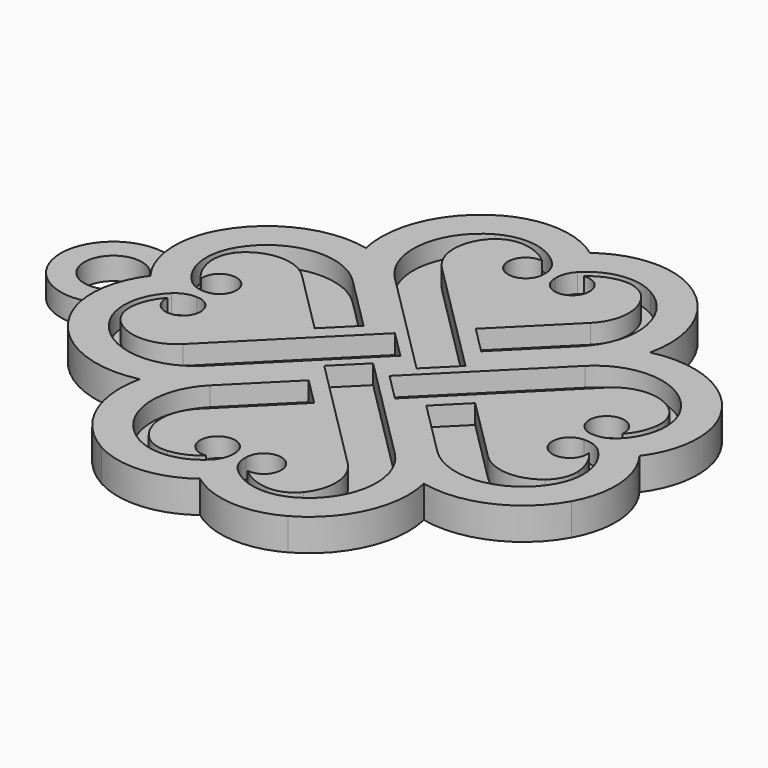
from build123d import *

# Parameters (mm, degrees)
F0_R     = 4.5
F1_DEPTH = 2
F2_DEPTH = 3
F3_DEPTH = 1.5


with BuildPart() as f1:
    # F0 (on Top) → F1 (new body)
    with BuildSketch(Plane.XY):
        with BuildLine():
            ThreePointArc((-22.195557, 22.10022), (-31.929241, 21.110374), (-39.143437, 14.501306))
            ThreePointArc((-39.143437, 14.501306), (-40.459177, 11.146918), (-40.831159, 7.562965))
            ThreePointArc((-40.831159, 7.562965), (-40.075927, 3.538955), (-38.138124, -0.0677))
            ThreePointArc((-38.138124, -0.0677), (-40.043327, -3.607661), (-40.809844, -7.553999))
            ThreePointArc((-40.809844, -7.553999), (-40.456582, -11.200588), (-39.126555, -14.614301))
            ThreePointArc((-39.126555, -14.614301), (-31.875648, -21.239772), (-22.10022, -22.195557))
            ThreePointArc((-22.10022, -22.195557), (-21.110374, -31.929241), (-14.501306, -39.143437))
            ThreePointArc((-14.501306, -39.143437), (-7.067382, -40.806194), (0.0677, -38.138124))
            ThreePointArc((0.0677, -38.138124), (7.19437, -40.790271), (14.614301, -39.126555))
            ThreePointArc((14.614301, -39.126555), (21.239772, -31.875648), (22.195557, -22.10022))
            ThreePointArc((22.195557, -22.10022), (31.929241, -21.110374), (39.143437, -14.501306))
            ThreePointArc((39.143437, -14.501306), (40.806194, -7.067382), (38.138124, 0.0677))
            ThreePointArc((38.138124, 0.0677), (40.790271, 7.19437), (39.126555, 14.614301))
            ThreePointArc((39.126555, 14.614301), (31.875648, 21.239772), (22.10022, 22.195557))
            ThreePointArc((22.10022, 22.195557), (21.110374, 31.929241), (14.501306, 39.143437))
            ThreePointArc((14.501306, 39.143437), (7.067382, 40.806194), (-0.0677, 38.138124))
            ThreePointArc((-0.0677, 38.138124), (-7.19437, 40.790271), (-14.614301, 39.126555))
            ThreePointArc((-14.614301, 39.126555), (-21.239772, 31.875648), (-22.195557, 22.10022))
        make_face()
        with BuildLine():
            Line((-1.578637, -13.7952), (-11.554089, -23.770654))
            ThreePointArc((-11.554089, -23.770654), (-13.570947, -28.311256), (-12.023266, -33.032427))
            ThreePointArc((-12.023266, -33.032427), (-10.051402, -34.500658), (-7.619412, -34.860349))
            ThreePointArc((-7.619412, -34.860349), (-5.25291, -34.227678), (-3.209532, -32.876673))
            ThreePointArc((-3.209532, -32.876673), (-5.593811, -28.347924), (-0.823556, -30.202384))
            ThreePointArc((-0.823556, -30.202384), (-1.058028, -31.836686), (-1.927638, -33.240146))
            ThreePointArc((-1.927638, -33.240146), (-6.733199, -35.743344), (-12.064813, -34.77726))
            ThreePointArc((-12.064813, -34.77726), (-17.370307, -27.022283), (-14.382517, -18.1138))
            Line((-14.382517, -18.1138), (-5.821278, -9.55256))
            Line((-5.821278, -9.55256), (-1.578637, -13.7952))
        make_face(mode=Mode.SUBTRACT)
        with BuildLine():
            Line((-5.385876, 6.734572), (-1.143236, 2.49193))
            Line((-1.143236, 2.49193), (-18.1138, -14.47863))
            ThreePointArc((-18.1138, -14.47863), (-27.022283, -17.466421), (-34.77726, -12.160926))
            ThreePointArc((-34.77726, -12.160926), (-35.743344, -6.829313), (-33.240146, -2.023752))
            ThreePointArc((-33.240146, -2.023752), (-31.836686, -1.154141), (-30.202384, -0.919669))
            ThreePointArc((-30.202384, -0.919669), (-28.347924, -5.689925), (-32.876673, -3.305645))
            ThreePointArc((-32.876673, -3.305645), (-34.227678, -5.349024), (-34.860349, -7.715526))
            ThreePointArc((-34.860349, -7.715526), (-34.500658, -10.147515), (-33.032427, -12.11938))
            ThreePointArc((-33.032427, -12.11938), (-28.311256, -13.667061), (-23.770654, -11.650202))
            Line((-23.770654, -11.650202), (-5.385876, 6.734572))
        make_face(mode=Mode.SUBTRACT)
        with BuildLine():
            Line((-6.734572, -5.385876), (-2.49193, -1.143236))
            Line((-2.49193, -1.143236), (14.47863, -18.1138))
            ThreePointArc((14.47863, -18.1138), (17.466421, -27.022283), (12.160926, -34.77726))
            ThreePointArc((12.160926, -34.77726), (6.829313, -35.743344), (2.023752, -33.240146))
            ThreePointArc((2.023752, -33.240146), (1.154141, -31.836686), (0.919669, -30.202384))
            ThreePointArc((0.919669, -30.202384), (5.689925, -28.347924), (3.305645, -32.876673))
            ThreePointArc((3.305645, -32.876673), (5.349024, -34.227678), (7.715526, -34.860349))
            ThreePointArc((7.715526, -34.860349), (10.147515, -34.500658), (12.11938, -33.032427))
            ThreePointArc((12.11938, -33.032427), (13.667061, -28.311256), (11.650202, -23.770654))
            Line((11.650202, -23.770654), (-6.734572, -5.385876))
        make_face(mode=Mode.SUBTRACT)
        with BuildLine():
            Line((13.7952, -1.578637), (23.770654, -11.554089))
            ThreePointArc((23.770654, -11.554089), (28.311256, -13.570947), (33.032427, -12.023266))
            ThreePointArc((33.032427, -12.023266), (34.500658, -10.051402), (34.860349, -7.619412))
            ThreePointArc((34.860349, -7.619412), (34.227678, -5.25291), (32.876673, -3.209532))
            ThreePointArc((32.876673, -3.209532), (28.347924, -5.593811), (30.202384, -0.823556))
            ThreePointArc((30.202384, -0.823556), (31.836686, -1.058028), (33.240146, -1.927638))
            ThreePointArc((33.240146, -1.927638), (35.743344, -6.733199), (34.77726, -12.064813))
            ThreePointArc((34.77726, -12.064813), (27.022283, -17.370307), (18.1138, -14.382517))
            Line((18.1138, -14.382517), (9.55256, -5.821278))
            Line((9.55256, -5.821278), (13.7952, -1.578637))
        make_face(mode=Mode.SUBTRACT)
        with BuildLine():
            Line((-13.836511, 1.619973), (-23.769601, 11.553061))
            ThreePointArc((-23.769601, 11.553061), (-28.310202, 13.56992), (-33.031374, 12.022238))
            ThreePointArc((-33.031374, 12.022238), (-34.499604, 10.050374), (-34.859296, 7.618385))
            ThreePointArc((-34.859296, 7.618385), (-34.223983, 5.231724), (-32.858554, 3.173722))
            ThreePointArc((-32.858554, 3.173722), (-28.428264, 5.504951), (-30.245205, 0.840101))
            ThreePointArc((-30.245205, 0.840101), (-31.856449, 1.070551), (-33.240146, 1.927638))
            ThreePointArc((-33.240146, 1.927638), (-35.743344, 6.733199), (-34.77726, 12.064813))
            ThreePointArc((-34.77726, 12.064813), (-27.022283, 17.370307), (-18.1138, 14.382517))
            Line((-18.1138, 14.382517), (-9.593883, 5.862601))
            Line((-9.593883, 5.862601), (-13.836511, 1.619973))
        make_face(mode=Mode.SUBTRACT)
        with BuildLine():
            Line((6.734572, 5.352113), (2.49193, 1.109473))
            Line((2.49193, 1.109473), (-14.495512, 18.096919))
            ThreePointArc((-14.495512, 18.096919), (-17.483302, 27.005401), (-12.177808, 34.760379))
            ThreePointArc((-12.177808, 34.760379), (-6.846194, 35.726463), (-2.040633, 33.223264))
            ThreePointArc((-2.040633, 33.223264), (-1.171108, 31.820039), (-0.936519, 30.186))
            ThreePointArc((-0.936519, 30.186), (-5.748756, 28.316508), (-3.343357, 32.884514))
            ThreePointArc((-3.343357, 32.884514), (-5.386735, 34.235519), (-7.753238, 34.86819))
            ThreePointArc((-7.753238, 34.86819), (-10.181806, 34.509917), (-12.152406, 33.046005))
            ThreePointArc((-12.152406, 33.046005), (-13.706778, 28.322035), (-11.689664, 23.776353))
            Line((-11.689664, 23.776353), (6.734572, 5.352113))
        make_face(mode=Mode.SUBTRACT)
        with BuildLine():
            Line((5.385876, -6.734572), (1.143236, -2.49193))
            Line((1.143236, -2.49193), (18.1138, 14.47863))
            ThreePointArc((18.1138, 14.47863), (27.022283, 17.466421), (34.77726, 12.160926))
            ThreePointArc((34.77726, 12.160926), (35.743344, 6.829313), (33.240146, 2.023752))
            ThreePointArc((33.240146, 2.023752), (31.836686, 1.154141), (30.202384, 0.919669))
            ThreePointArc((30.202384, 0.919669), (28.347924, 5.689925), (32.876673, 3.305645))
            ThreePointArc((32.876673, 3.305645), (34.227678, 5.349024), (34.860349, 7.715526))
            ThreePointArc((34.860349, 7.715526), (34.500658, 10.147515), (33.032427, 12.11938))
            ThreePointArc((33.032427, 12.11938), (28.311256, 13.667061), (23.770654, 11.650202))
            Line((23.770654, 11.650202), (5.385876, -6.734572))
        make_face(mode=Mode.SUBTRACT)
        with BuildLine():
            Line((1.578637, 13.7952), (11.554089, 23.770654))
            ThreePointArc((11.554089, 23.770654), (13.570947, 28.311256), (12.023266, 33.032427))
            ThreePointArc((12.023266, 33.032427), (10.051402, 34.500658), (7.619412, 34.860349))
            ThreePointArc((7.619412, 34.860349), (5.25291, 34.227678), (3.209532, 32.876673))
            ThreePointArc((3.209532, 32.876673), (5.593811, 28.347924), (0.823556, 30.202384))
            ThreePointArc((0.823556, 30.202384), (1.058028, 31.836686), (1.927638, 33.240146))
            ThreePointArc((1.927638, 33.240146), (6.733199, 35.743344), (12.064813, 34.77726))
            ThreePointArc((12.064813, 34.77726), (17.370307, 27.022283), (14.382517, 18.1138))
            Line((14.382517, 18.1138), (5.821278, 9.55256))
            Line((5.821278, 9.55256), (1.578637, 13.7952))
        make_face(mode=Mode.SUBTRACT)
        with BuildLine():
            Line((-14.495512, 18.096919), (2.49193, 1.109473))
            Line((2.49193, 1.109473), (6.734572, 5.352113))
            Line((6.734572, 5.352113), (-11.689664, 23.776353))
            ThreePointArc((-11.689664, 23.776353), (-13.706778, 28.322035), (-12.152406, 33.046005))
            ThreePointArc((-12.152406, 33.046005), (-10.181806, 34.509917), (-7.753238, 34.86819))
            ThreePointArc((-7.753238, 34.86819), (-5.386735, 34.235519), (-3.343357, 32.884514))
            ThreePointArc((-3.343357, 32.884514), (-5.748756, 28.316508), (-0.936519, 30.186))
            ThreePointArc((-0.936519, 30.186), (-1.171108, 31.820039), (-2.040633, 33.223264))
            ThreePointArc((-2.040633, 33.223264), (-6.846194, 35.726463), (-12.177808, 34.760379))
            ThreePointArc((-12.177808, 34.760379), (-17.483302, 27.005401), (-14.495512, 18.096919))
        make_face()
        with BuildLine():
            ThreePointArc((12.023266, 33.032427), (13.570947, 28.311256), (11.554089, 23.770654))
            Line((11.554089, 23.770654), (1.578637, 13.7952))
            Line((1.578637, 13.7952), (5.821278, 9.55256))
            Line((5.821278, 9.55256), (14.382517, 18.1138))
            ThreePointArc((14.382517, 18.1138), (17.370307, 27.022283), (12.064813, 34.77726))
            ThreePointArc((12.064813, 34.77726), (6.733199, 35.743344), (1.927638, 33.240146))
            ThreePointArc((1.927638, 33.240146), (1.058028, 31.836686), (0.823556, 30.202384))
            ThreePointArc((0.823556, 30.202384), (5.593811, 28.347924), (3.209532, 32.876673))
            ThreePointArc((3.209532, 32.876673), (5.25291, 34.227678), (7.619412, 34.860349))
            ThreePointArc((7.619412, 34.860349), (10.051402, 34.500658), (12.023266, 33.032427))
        make_face()
        with BuildLine():
            Line((18.1138, 14.47863), (1.143236, -2.49193))
            Line((1.143236, -2.49193), (5.385876, -6.734572))
            Line((5.385876, -6.734572), (23.770654, 11.650202))
            ThreePointArc((23.770654, 11.650202), (28.311256, 13.667061), (33.032427, 12.11938))
            ThreePointArc((33.032427, 12.11938), (34.500658, 10.147515), (34.860349, 7.715526))
            ThreePointArc((34.860349, 7.715526), (34.227678, 5.349024), (32.876673, 3.305645))
            ThreePointArc((32.876673, 3.305645), (28.347924, 5.689925), (30.202384, 0.919669))
            ThreePointArc((30.202384, 0.919669), (31.836686, 1.154141), (33.240146, 2.023752))
            ThreePointArc((33.240146, 2.023752), (35.743344, 6.829313), (34.77726, 12.160926))
            ThreePointArc((34.77726, 12.160926), (27.022283, 17.466421), (18.1138, 14.47863))
        make_face()
        with BuildLine():
            ThreePointArc((33.032427, -12.023266), (28.311256, -13.570947), (23.770654, -11.554089))
            Line((23.770654, -11.554089), (13.7952, -1.578637))
            Line((13.7952, -1.578637), (9.55256, -5.821278))
            Line((9.55256, -5.821278), (18.1138, -14.382517))
            ThreePointArc((18.1138, -14.382517), (27.022283, -17.370307), (34.77726, -12.064813))
            ThreePointArc((34.77726, -12.064813), (35.743344, -6.733199), (33.240146, -1.927638))
            ThreePointArc((33.240146, -1.927638), (31.836686, -1.058028), (30.202384, -0.823556))
            ThreePointArc((30.202384, -0.823556), (28.347924, -5.593811), (32.876673, -3.209532))
            ThreePointArc((32.876673, -3.209532), (34.227678, -5.25291), (34.860349, -7.619412))
            ThreePointArc((34.860349, -7.619412), (34.500658, -10.051402), (33.032427, -12.023266))
        make_face()
        with BuildLine():
            Line((14.47863, -18.1138), (-2.49193, -1.143236))
            Line((-2.49193, -1.143236), (-6.734572, -5.385876))
            Line((-6.734572, -5.385876), (11.650202, -23.770654))
            ThreePointArc((11.650202, -23.770654), (13.667061, -28.311256), (12.11938, -33.032427))
            ThreePointArc((12.11938, -33.032427), (10.147515, -34.500658), (7.715526, -34.860349))
            ThreePointArc((7.715526, -34.860349), (5.349024, -34.227678), (3.305645, -32.876673))
            ThreePointArc((3.305645, -32.876673), (5.689925, -28.347924), (0.919669, -30.202384))
            ThreePointArc((0.919669, -30.202384), (1.154141, -31.836686), (2.023752, -33.240146))
            ThreePointArc((2.023752, -33.240146), (6.829313, -35.743344), (12.160926, -34.77726))
            ThreePointArc((12.160926, -34.77726), (17.466421, -27.022283), (14.47863, -18.1138))
        make_face()
        with BuildLine():
            ThreePointArc((-12.023266, -33.032427), (-13.570947, -28.311256), (-11.554089, -23.770654))
            Line((-11.554089, -23.770654), (-1.578637, -13.7952))
            Line((-1.578637, -13.7952), (-5.821278, -9.55256))
            Line((-5.821278, -9.55256), (-14.382517, -18.1138))
            ThreePointArc((-14.382517, -18.1138), (-17.370307, -27.022283), (-12.064813, -34.77726))
            ThreePointArc((-12.064813, -34.77726), (-6.733199, -35.743344), (-1.927638, -33.240146))
            ThreePointArc((-1.927638, -33.240146), (-1.058028, -31.836686), (-0.823556, -30.202384))
            ThreePointArc((-0.823556, -30.202384), (-5.593811, -28.347924), (-3.209532, -32.876673))
            ThreePointArc((-3.209532, -32.876673), (-5.25291, -34.227678), (-7.619412, -34.860349))
            ThreePointArc((-7.619412, -34.860349), (-10.051402, -34.500658), (-12.023266, -33.032427))
        make_face()
        with BuildLine():
            Line((-18.1138, -14.47863), (-1.143236, 2.49193))
            Line((-1.143236, 2.49193), (-5.385876, 6.734572))
            Line((-5.385876, 6.734572), (-23.770654, -11.650202))
            ThreePointArc((-23.770654, -11.650202), (-28.311256, -13.667061), (-33.032427, -12.11938))
            ThreePointArc((-33.032427, -12.11938), (-34.500658, -10.147515), (-34.860349, -7.715526))
            ThreePointArc((-34.860349, -7.715526), (-34.227678, -5.349024), (-32.876673, -3.305645))
            ThreePointArc((-32.876673, -3.305645), (-28.347924, -5.689925), (-30.202384, -0.919669))
            ThreePointArc((-30.202384, -0.919669), (-31.836686, -1.154141), (-33.240146, -2.023752))
            ThreePointArc((-33.240146, -2.023752), (-35.743344, -6.829313), (-34.77726, -12.160926))
            ThreePointArc((-34.77726, -12.160926), (-27.022283, -17.466421), (-18.1138, -14.47863))
        make_face()
        with BuildLine():
            ThreePointArc((-33.031374, 12.022238), (-28.310202, 13.56992), (-23.769601, 11.553061))
            Line((-23.769601, 11.553061), (-13.836511, 1.619973))
            Line((-13.836511, 1.619973), (-9.593883, 5.862601))
            Line((-9.593883, 5.862601), (-18.1138, 14.382517))
            ThreePointArc((-18.1138, 14.382517), (-27.022283, 17.370307), (-34.77726, 12.064813))
            ThreePointArc((-34.77726, 12.064813), (-35.743344, 6.733199), (-33.240146, 1.927638))
            ThreePointArc((-33.240146, 1.927638), (-31.856449, 1.070551), (-30.245205, 0.840101))
            ThreePointArc((-30.245205, 0.840101), (-28.428264, 5.504951), (-32.858554, 3.173722))
            ThreePointArc((-32.858554, 3.173722), (-34.223983, 5.231724), (-34.859296, 7.618385))
            ThreePointArc((-34.859296, 7.618385), (-34.499604, 10.050374), (-33.031374, 12.022238))
        make_face()
        with BuildLine():
            ThreePointArc((-38.138124, -0.0677), (-40.075927, 3.538955), (-40.831159, 7.562965))
            ThreePointArc((-40.831159, 7.562965), (-52.199992, -0.011562), (-40.809844, -7.553999))
            ThreePointArc((-40.809844, -7.553999), (-40.043327, -3.607661), (-38.138124, -0.0677))
        make_face()
        with Locations((-44, 0)):
            Circle(F0_R, mode=Mode.SUBTRACT)
    extrude(amount=-F1_DEPTH)

    # F0 (on Top) → F2 (join)
    with BuildSketch(Plane.XY):
        with BuildLine():
            ThreePointArc((-22.195557, 22.10022), (-31.929241, 21.110374), (-39.143437, 14.501306))
            ThreePointArc((-39.143437, 14.501306), (-40.459177, 11.146918), (-40.831159, 7.562965))
            ThreePointArc((-40.831159, 7.562965), (-40.075927, 3.538955), (-38.138124, -0.0677))
            ThreePointArc((-38.138124, -0.0677), (-40.043327, -3.607661), (-40.809844, -7.553999))
            ThreePointArc((-40.809844, -7.553999), (-40.456582, -11.200588), (-39.126555, -14.614301))
            ThreePointArc((-39.126555, -14.614301), (-31.875648, -21.239772), (-22.10022, -22.195557))
            ThreePointArc((-22.10022, -22.195557), (-21.110374, -31.929241), (-14.501306, -39.143437))
            ThreePointArc((-14.501306, -39.143437), (-7.067382, -40.806194), (0.0677, -38.138124))
            ThreePointArc((0.0677, -38.138124), (7.19437, -40.790271), (14.614301, -39.126555))
            ThreePointArc((14.614301, -39.126555), (21.239772, -31.875648), (22.195557, -22.10022))
            ThreePointArc((22.195557, -22.10022), (31.929241, -21.110374), (39.143437, -14.501306))
            ThreePointArc((39.143437, -14.501306), (40.806194, -7.067382), (38.138124, 0.0677))
            ThreePointArc((38.138124, 0.0677), (40.790271, 7.19437), (39.126555, 14.614301))
            ThreePointArc((39.126555, 14.614301), (31.875648, 21.239772), (22.10022, 22.195557))
            ThreePointArc((22.10022, 22.195557), (21.110374, 31.929241), (14.501306, 39.143437))
            ThreePointArc((14.501306, 39.143437), (7.067382, 40.806194), (-0.0677, 38.138124))
            ThreePointArc((-0.0677, 38.138124), (-7.19437, 40.790271), (-14.614301, 39.126555))
            ThreePointArc((-14.614301, 39.126555), (-21.239772, 31.875648), (-22.195557, 22.10022))
        make_face()
        with BuildLine():
            Line((-1.578637, -13.7952), (-11.554089, -23.770654))
            ThreePointArc((-11.554089, -23.770654), (-13.570947, -28.311256), (-12.023266, -33.032427))
            ThreePointArc((-12.023266, -33.032427), (-10.051402, -34.500658), (-7.619412, -34.860349))
            ThreePointArc((-7.619412, -34.860349), (-5.25291, -34.227678), (-3.209532, -32.876673))
            ThreePointArc((-3.209532, -32.876673), (-5.593811, -28.347924), (-0.823556, -30.202384))
            ThreePointArc((-0.823556, -30.202384), (-1.058028, -31.836686), (-1.927638, -33.240146))
            ThreePointArc((-1.927638, -33.240146), (-6.733199, -35.743344), (-12.064813, -34.77726))
            ThreePointArc((-12.064813, -34.77726), (-17.370307, -27.022283), (-14.382517, -18.1138))
            Line((-14.382517, -18.1138), (-5.821278, -9.55256))
            Line((-5.821278, -9.55256), (-1.578637, -13.7952))
        make_face(mode=Mode.SUBTRACT)
        with BuildLine():
            Line((-5.385876, 6.734572), (-1.143236, 2.49193))
            Line((-1.143236, 2.49193), (-18.1138, -14.47863))
            ThreePointArc((-18.1138, -14.47863), (-27.022283, -17.466421), (-34.77726, -12.160926))
            ThreePointArc((-34.77726, -12.160926), (-35.743344, -6.829313), (-33.240146, -2.023752))
            ThreePointArc((-33.240146, -2.023752), (-31.836686, -1.154141), (-30.202384, -0.919669))
            ThreePointArc((-30.202384, -0.919669), (-28.347924, -5.689925), (-32.876673, -3.305645))
            ThreePointArc((-32.876673, -3.305645), (-34.227678, -5.349024), (-34.860349, -7.715526))
            ThreePointArc((-34.860349, -7.715526), (-34.500658, -10.147515), (-33.032427, -12.11938))
            ThreePointArc((-33.032427, -12.11938), (-28.311256, -13.667061), (-23.770654, -11.650202))
            Line((-23.770654, -11.650202), (-5.385876, 6.734572))
        make_face(mode=Mode.SUBTRACT)
        with BuildLine():
            Line((-6.734572, -5.385876), (-2.49193, -1.143236))
            Line((-2.49193, -1.143236), (14.47863, -18.1138))
            ThreePointArc((14.47863, -18.1138), (17.466421, -27.022283), (12.160926, -34.77726))
            ThreePointArc((12.160926, -34.77726), (6.829313, -35.743344), (2.023752, -33.240146))
            ThreePointArc((2.023752, -33.240146), (1.154141, -31.836686), (0.919669, -30.202384))
            ThreePointArc((0.919669, -30.202384), (5.689925, -28.347924), (3.305645, -32.876673))
            ThreePointArc((3.305645, -32.876673), (5.349024, -34.227678), (7.715526, -34.860349))
            ThreePointArc((7.715526, -34.860349), (10.147515, -34.500658), (12.11938, -33.032427))
            ThreePointArc((12.11938, -33.032427), (13.667061, -28.311256), (11.650202, -23.770654))
            Line((11.650202, -23.770654), (-6.734572, -5.385876))
        make_face(mode=Mode.SUBTRACT)
        with BuildLine():
            Line((13.7952, -1.578637), (23.770654, -11.554089))
            ThreePointArc((23.770654, -11.554089), (28.311256, -13.570947), (33.032427, -12.023266))
            ThreePointArc((33.032427, -12.023266), (34.500658, -10.051402), (34.860349, -7.619412))
            ThreePointArc((34.860349, -7.619412), (34.227678, -5.25291), (32.876673, -3.209532))
            ThreePointArc((32.876673, -3.209532), (28.347924, -5.593811), (30.202384, -0.823556))
            ThreePointArc((30.202384, -0.823556), (31.836686, -1.058028), (33.240146, -1.927638))
            ThreePointArc((33.240146, -1.927638), (35.743344, -6.733199), (34.77726, -12.064813))
            ThreePointArc((34.77726, -12.064813), (27.022283, -17.370307), (18.1138, -14.382517))
            Line((18.1138, -14.382517), (9.55256, -5.821278))
            Line((9.55256, -5.821278), (13.7952, -1.578637))
        make_face(mode=Mode.SUBTRACT)
        with BuildLine():
            Line((-13.836511, 1.619973), (-23.769601, 11.553061))
            ThreePointArc((-23.769601, 11.553061), (-28.310202, 13.56992), (-33.031374, 12.022238))
            ThreePointArc((-33.031374, 12.022238), (-34.499604, 10.050374), (-34.859296, 7.618385))
            ThreePointArc((-34.859296, 7.618385), (-34.223983, 5.231724), (-32.858554, 3.173722))
            ThreePointArc((-32.858554, 3.173722), (-28.428264, 5.504951), (-30.245205, 0.840101))
            ThreePointArc((-30.245205, 0.840101), (-31.856449, 1.070551), (-33.240146, 1.927638))
            ThreePointArc((-33.240146, 1.927638), (-35.743344, 6.733199), (-34.77726, 12.064813))
            ThreePointArc((-34.77726, 12.064813), (-27.022283, 17.370307), (-18.1138, 14.382517))
            Line((-18.1138, 14.382517), (-9.593883, 5.862601))
            Line((-9.593883, 5.862601), (-13.836511, 1.619973))
        make_face(mode=Mode.SUBTRACT)
        with BuildLine():
            Line((6.734572, 5.352113), (2.49193, 1.109473))
            Line((2.49193, 1.109473), (-14.495512, 18.096919))
            ThreePointArc((-14.495512, 18.096919), (-17.483302, 27.005401), (-12.177808, 34.760379))
            ThreePointArc((-12.177808, 34.760379), (-6.846194, 35.726463), (-2.040633, 33.223264))
            ThreePointArc((-2.040633, 33.223264), (-1.171108, 31.820039), (-0.936519, 30.186))
            ThreePointArc((-0.936519, 30.186), (-5.748756, 28.316508), (-3.343357, 32.884514))
            ThreePointArc((-3.343357, 32.884514), (-5.386735, 34.235519), (-7.753238, 34.86819))
            ThreePointArc((-7.753238, 34.86819), (-10.181806, 34.509917), (-12.152406, 33.046005))
            ThreePointArc((-12.152406, 33.046005), (-13.706778, 28.322035), (-11.689664, 23.776353))
            Line((-11.689664, 23.776353), (6.734572, 5.352113))
        make_face(mode=Mode.SUBTRACT)
        with BuildLine():
            Line((5.385876, -6.734572), (1.143236, -2.49193))
            Line((1.143236, -2.49193), (18.1138, 14.47863))
            ThreePointArc((18.1138, 14.47863), (27.022283, 17.466421), (34.77726, 12.160926))
            ThreePointArc((34.77726, 12.160926), (35.743344, 6.829313), (33.240146, 2.023752))
            ThreePointArc((33.240146, 2.023752), (31.836686, 1.154141), (30.202384, 0.919669))
            ThreePointArc((30.202384, 0.919669), (28.347924, 5.689925), (32.876673, 3.305645))
            ThreePointArc((32.876673, 3.305645), (34.227678, 5.349024), (34.860349, 7.715526))
            ThreePointArc((34.860349, 7.715526), (34.500658, 10.147515), (33.032427, 12.11938))
            ThreePointArc((33.032427, 12.11938), (28.311256, 13.667061), (23.770654, 11.650202))
            Line((23.770654, 11.650202), (5.385876, -6.734572))
        make_face(mode=Mode.SUBTRACT)
        with BuildLine():
            Line((1.578637, 13.7952), (11.554089, 23.770654))
            ThreePointArc((11.554089, 23.770654), (13.570947, 28.311256), (12.023266, 33.032427))
            ThreePointArc((12.023266, 33.032427), (10.051402, 34.500658), (7.619412, 34.860349))
            ThreePointArc((7.619412, 34.860349), (5.25291, 34.227678), (3.209532, 32.876673))
            ThreePointArc((3.209532, 32.876673), (5.593811, 28.347924), (0.823556, 30.202384))
            ThreePointArc((0.823556, 30.202384), (1.058028, 31.836686), (1.927638, 33.240146))
            ThreePointArc((1.927638, 33.240146), (6.733199, 35.743344), (12.064813, 34.77726))
            ThreePointArc((12.064813, 34.77726), (17.370307, 27.022283), (14.382517, 18.1138))
            Line((14.382517, 18.1138), (5.821278, 9.55256))
            Line((5.821278, 9.55256), (1.578637, 13.7952))
        make_face(mode=Mode.SUBTRACT)
    extrude(amount=F2_DEPTH)

    # F0 (on Top) → F3 (join)
    with BuildSketch(Plane.XY):
        with BuildLine():
            ThreePointArc((-38.138124, -0.0677), (-40.075927, 3.538955), (-40.831159, 7.562965))
            ThreePointArc((-40.831159, 7.562965), (-52.199992, -0.011562), (-40.809844, -7.553999))
            ThreePointArc((-40.809844, -7.553999), (-40.043327, -3.607661), (-38.138124, -0.0677))
        make_face()
        with Locations((-44, 0)):
            Circle(F0_R, mode=Mode.SUBTRACT)
    extrude(amount=F3_DEPTH)


solid = f1.part
